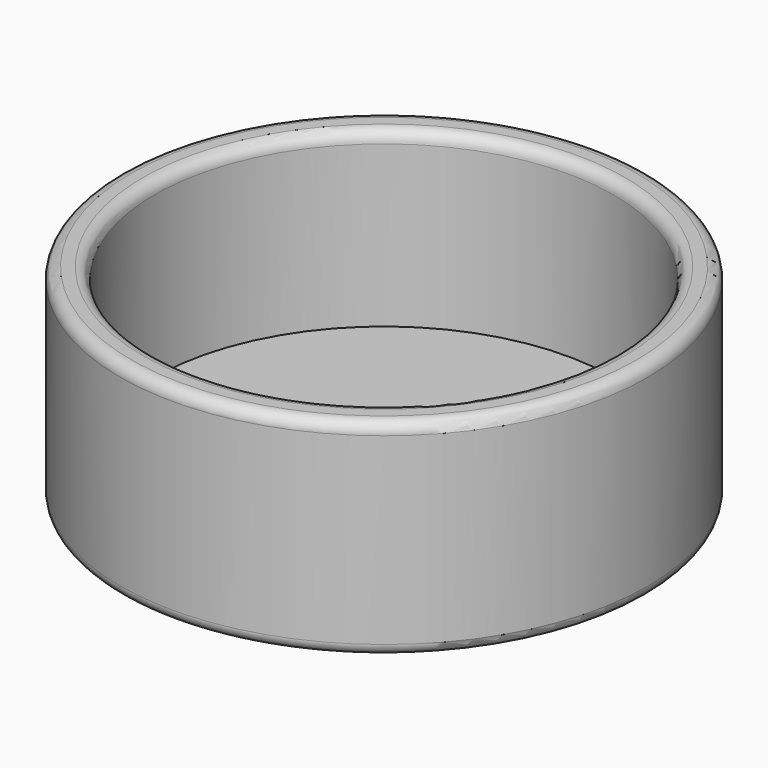
from build123d import *

# Parameters (mm, degrees)
F0_R     = 23
F0_R_2   = 20
F1_DEPTH = 15
F2_R     = 23
F3_DEPTH = 3
F4_R     = 1


with BuildPart() as f1:
    # F0 (on Top) → F1 (new body)
    with BuildSketch(Plane.XY):
        Circle(F0_R)
        Circle(F0_R_2, mode=Mode.SUBTRACT)
    extrude(amount=F1_DEPTH)

    # F2 (on Top) → F3 (join)
    with BuildSketch(Plane.XY):
        Circle(F2_R)
    extrude(amount=-F3_DEPTH)

    # F4
    f4_edges = [f1.edges().sort_by_distance(p)[0] for p in [
        (-23, 0, 15),
        (-20, 0, 15),
        (23, 0, 7.5),
        (-23, 0, 0),
    ]]
    fillet(f4_edges, radius=F4_R)


solid = f1.part
